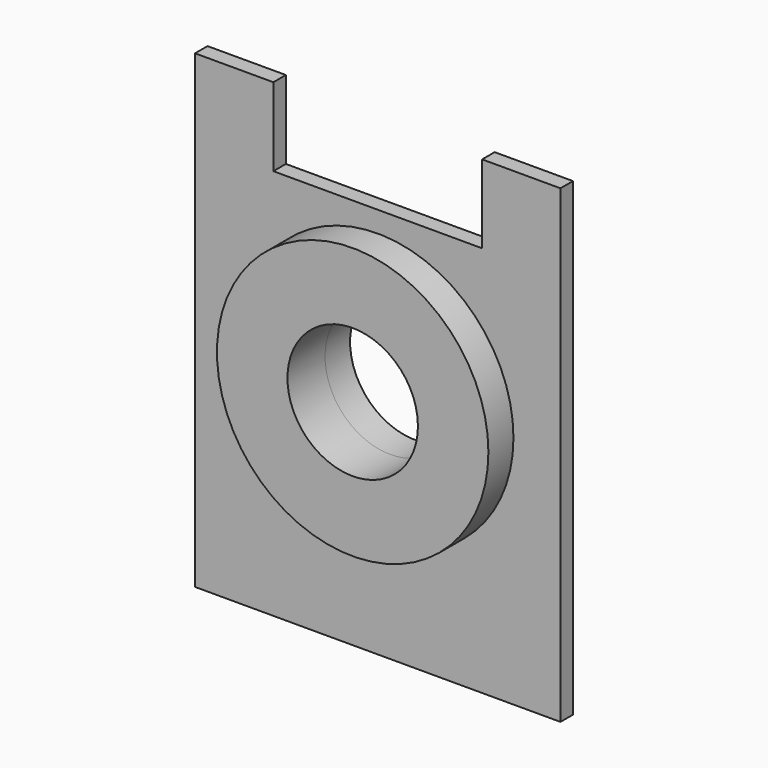
from build123d import *

# Parameters (mm, degrees)
F0_W          = 70
F0_H          = 90
F1_DEPTH      = 3
F2_D          = 52
F3_R          = 26
F3_R_2        = 12.5
F4_DEPTH      = 9
F4_DEPTH_BACK = 6
F5_W          = 40
F5_H          = 15
F6_DEPTH      = 25


with BuildPart() as f1:
    # F0 (on Front) → F1 (new body)
    with BuildSketch(Plane.XZ):
        Rectangle(F0_W, F0_H)
    extrude(amount=F1_DEPTH)

    # F2 (through all)
    with Locations(Plane(origin=(0, 0, 0), x_dir=(1, 0, 0), z_dir=(0, 1, 0))):
        with Locations((0, 0)):
            Hole(F2_D / 2)

    # F3 (on Front) → F4 (join, two sides)
    with BuildSketch(Plane.XZ) as f4_sk:
        Circle(F3_R)
        Circle(F3_R_2, mode=Mode.SUBTRACT)
    extrude(amount=F4_DEPTH)
    extrude(f4_sk.sketch, amount=-F4_DEPTH_BACK)

    # F5 (on face) → F6 (cut)
    with BuildSketch(Plane.XZ.offset(3)):
        with Locations((0, 37.5)):
            Rectangle(F5_W, F5_H)
    extrude(amount=-F6_DEPTH, mode=Mode.SUBTRACT)


solid = f1.part
